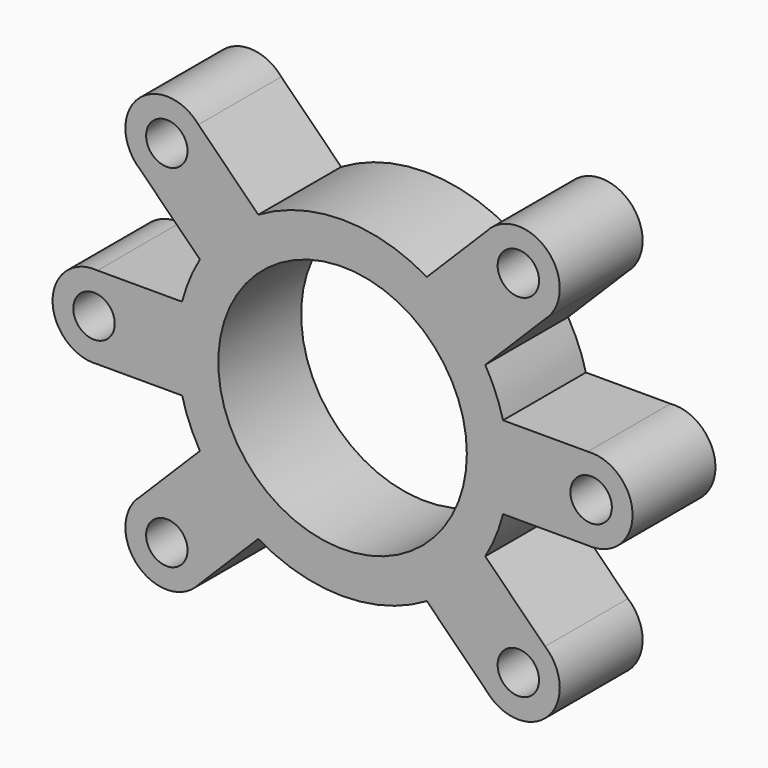
from build123d import *

# Parameters (mm, degrees)
F0_R     = 5
F0_R_2   = 30
F1_DEPTH = 25


with BuildPart() as f1:
    # F0 (on Front) → F1 (new body)
    with BuildSketch(Plane.XZ):
        with BuildLine():
            Line((59.166667, 9.965217), (38.738798, 9.965217))
            ThreePointArc((38.738798, 9.965217), (36.955181, 15.307337), (34.438939, 20.345994))
            Line((34.438939, 20.345994), (48.883624, 34.790679))
            ThreePointArc((48.883624, 34.790679), (49.497475, 49.497475), (34.790679, 48.883624))
            Line((34.790679, 48.883624), (20.345994, 34.438939))
            ThreePointArc((20.345994, 34.438939), (0, 40), (-20.345994, 34.438939))
            Line((-20.345994, 34.438939), (-34.790679, 48.883624))
            ThreePointArc((-34.790679, 48.883624), (-49.497475, 49.497475), (-48.883624, 34.790679))
            Line((-48.883624, 34.790679), (-34.438939, 20.345994))
            ThreePointArc((-34.438939, 20.345994), (-36.955181, 15.307337), (-38.738798, 9.965217))
            Line((-38.738798, 9.965217), (-59.166667, 9.965217))
            ThreePointArc((-59.166667, 9.965217), (-70, 0), (-59.166667, -9.965217))
            Line((-59.166667, -9.965217), (-38.738798, -9.965217))
            ThreePointArc((-38.738798, -9.965217), (-36.955181, -15.307337), (-34.438939, -20.345994))
            Line((-34.438939, -20.345994), (-48.883624, -34.790679))
            ThreePointArc((-48.883624, -34.790679), (-49.497475, -49.497475), (-34.790679, -48.883624))
            Line((-34.790679, -48.883624), (-20.345994, -34.438939))
            ThreePointArc((-20.345994, -34.438939), (0, -40), (20.345994, -34.438939))
            Line((20.345994, -34.438939), (34.790679, -48.883624))
            ThreePointArc((34.790679, -48.883624), (49.497475, -49.497475), (48.883624, -34.790679))
            Line((48.883624, -34.790679), (34.438939, -20.345994))
            ThreePointArc((34.438939, -20.345994), (36.955181, -15.307337), (38.738798, -9.965217))
            Line((38.738798, -9.965217), (59.166667, -9.965217))
            ThreePointArc((59.166667, -9.965217), (70, 0), (59.166667, 9.965217))
        make_face()
        with Locations((-42.426407, -42.426407)):
            Circle(F0_R, mode=Mode.SUBTRACT)
        with Locations((42.426407, -42.426407)):
            Circle(F0_R, mode=Mode.SUBTRACT)
        with Locations((-60, 0)):
            Circle(F0_R, mode=Mode.SUBTRACT)
        with Locations((-42.426407, 42.426407)):
            Circle(F0_R, mode=Mode.SUBTRACT)
        Circle(F0_R_2, mode=Mode.SUBTRACT)
        with Locations((60, 0)):
            Circle(F0_R, mode=Mode.SUBTRACT)
        with Locations((42.426407, 42.426407)):
            Circle(F0_R, mode=Mode.SUBTRACT)
    extrude(amount=F1_DEPTH)


solid = f1.part
